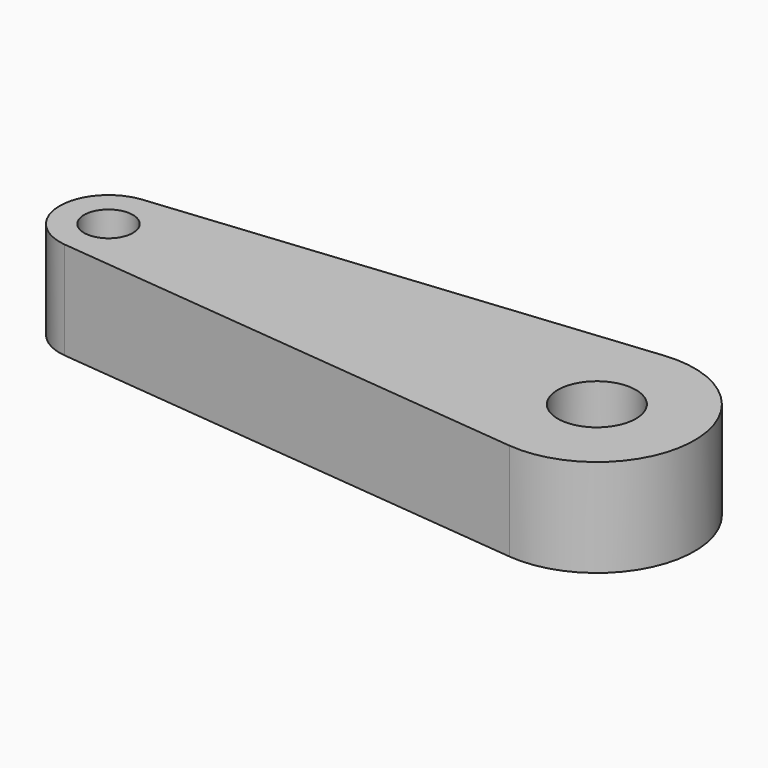
from build123d import *

# Parameters (mm, degrees)
F0_R     = 6.35
F0_R_2   = 10.16
F1_DEPTH = 25.4


with BuildPart() as f1:
    # F0 (on Top) → F1 (new body)
    with BuildSketch(Plane.XY):
        with BuildLine():
            Line((63.025586, 25.272681), (-62.704414, 12.63634))
            ThreePointArc((-62.704414, 12.63634), (-74.134414, 0), (-62.704414, -12.63634))
            Line((-62.704414, -12.63634), (63.025586, -25.272681))
            ThreePointArc((63.025586, -25.272681), (90.965586, 0), (63.025586, 25.272681))
        make_face()
        with Locations((-61.434414, 0)):
            Circle(F0_R, mode=Mode.SUBTRACT)
        with Locations((65.565586, 0)):
            Circle(F0_R_2, mode=Mode.SUBTRACT)
    extrude(amount=F1_DEPTH)


solid = f1.part
